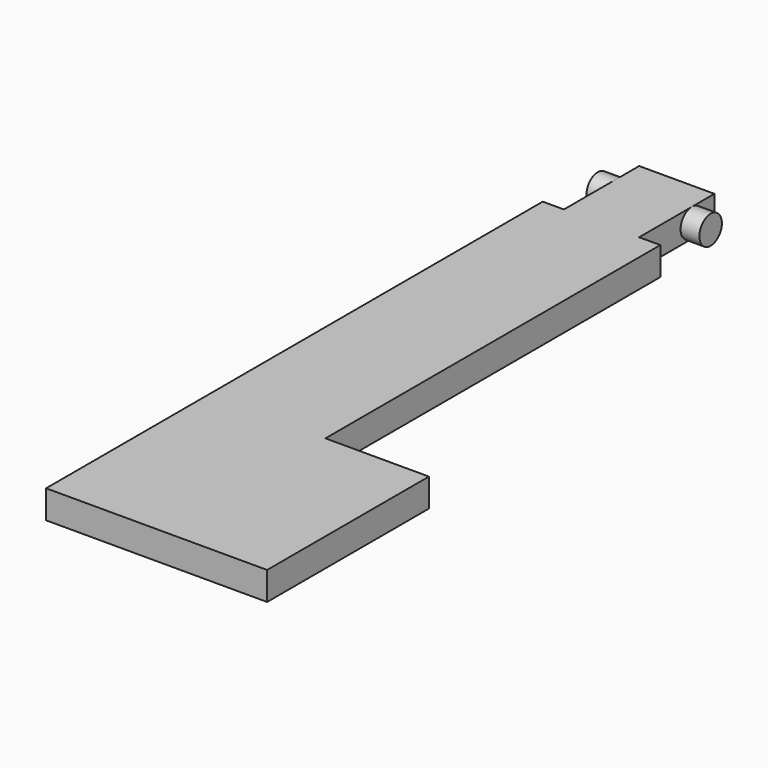
from build123d import *

# Parameters (mm, degrees)
PAD_DEPTH    = 3
SKETCH001_R  = 1.5
PAD001_DEPTH = 6


with BuildPart() as part:
    # Sketch → Pad (new body)
    with BuildSketch(Plane.XY):
        Polygon((-6.25, 33), (-6.25, -33), (17.25, -33), (17.25, -11.5), (6.25, -11.5), (6.25, 33), (4, 33), (4, 43), (-4, 43), (-4, 33), align=None)
    extrude(amount=PAD_DEPTH)

    # Sketch001 → Pad001 (join, symmetric)
    with BuildSketch(Plane.YZ):
        with Locations((40, 1.5)):
            Circle(SKETCH001_R)
    extrude(amount=PAD001_DEPTH, both=True)


solid = part.part
